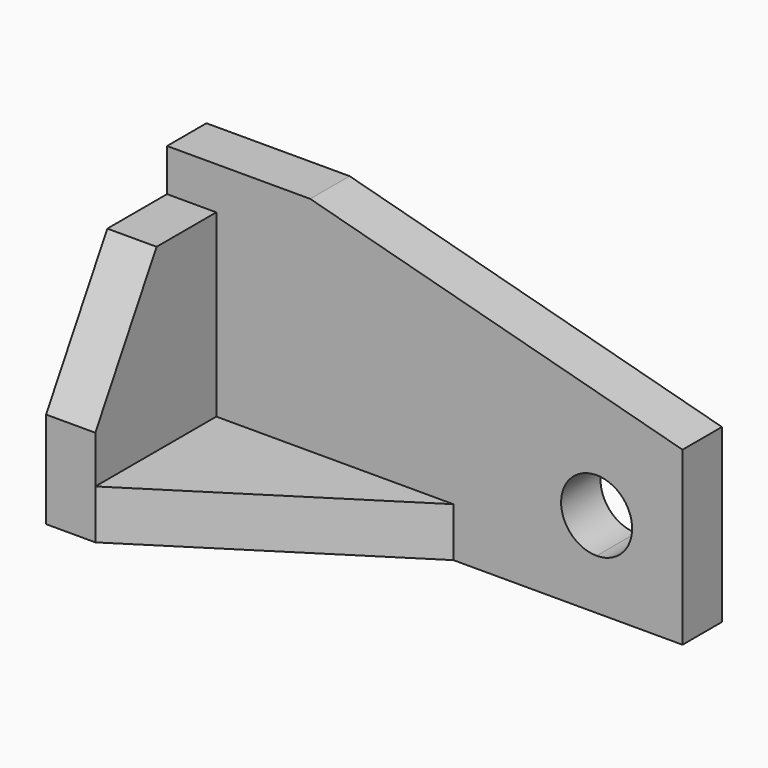
from build123d import *

# Parameters (mm, degrees)
F0_W      = 114.3
F0_H      = 60.198
F1_DEPTH  = 10.922
F3_DEPTH  = 10.922
F5_DEPTH  = 10.922
F6_W      = 63.5
F6_H      = 50.8
F7_DEPTH  = 33.528
F8_W      = 52.578
F8_H      = 39.878
F9_DEPTH  = 33.528
F11_DEPTH = 10.922
F13_DEPTH = 10.922


with BuildPart() as f1:
    # F0 (on Front) → F1 (new body)
    with BuildSketch(Plane.XZ):
        with Locations((1.229389, -9.673414)):
            Rectangle(F0_W, F0_H)
    extrude(amount=F1_DEPTH)

    # F2 (on face) → F3 (cut)
    with BuildSketch(Plane.XZ.offset(10.922)):
        Polygon((58.379389, -1.69362), (58.379389, 20.425586), (-24.170611, 20.425586), align=None)
    extrude(amount=-F3_DEPTH, mode=Mode.SUBTRACT)

    # F4 (on face) → F5 (cut)
    with BuildSketch(Plane.XZ.offset(10.922)):
        with BuildLine():
            ThreePointArc((47.203389, -20.722414), (33.761631, -15.154655), (39.329389, -28.596414))
            ThreePointArc((39.329389, -28.596414), (44.897148, -26.290172), (47.203389, -20.722414))
        make_face()
    extrude(amount=-F5_DEPTH, mode=Mode.SUBTRACT)

    # F6 (on face) → F7 (join)
    with BuildSketch(Plane.XZ.offset(10.922)):
        with Locations((-24.170611, -14.372414)):
            Rectangle(F6_W, F6_H)
    extrude(amount=F7_DEPTH)

    # F8 (on face) → F9 (cut)
    with BuildSketch(Plane.XZ.offset(44.45)):
        with Locations((-18.709611, -8.911414)):
            Rectangle(F8_W, F8_H)
    extrude(amount=-F9_DEPTH, mode=Mode.SUBTRACT)

    # F10 (on face) → F11 (cut)
    with BuildSketch(Plane.XY.offset(-28.850414)):
        Polygon((7.579389, -10.922), (-44.998611, -44.45), (7.579389, -44.45), align=None)
    extrude(amount=-F11_DEPTH, mode=Mode.SUBTRACT)

    # F12 (on face) → F13 (cut)
    with BuildSketch(Plane.YZ.offset(-44.998611)):
        Polygon((-44.45, 11.027586), (-44.45, -18.372175), (-27.47604, 11.027586), align=None)
    extrude(amount=-F13_DEPTH, mode=Mode.SUBTRACT)


solid = f1.part
